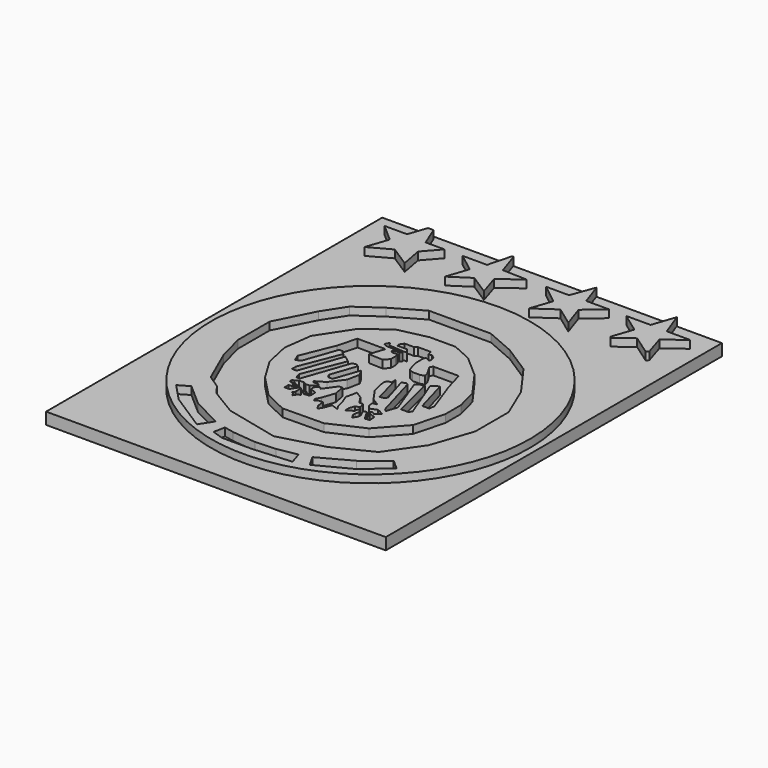
from build123d import *

# Parameters (mm, degrees)
F1_DEPTH = 5
F2_W     = 86.9421176612
F2_H     = 107.5545363128
F3_DEPTH = 3


with BuildPart() as f1:
    # F0 (on Top) → F1 (new body)
    with BuildSketch(Plane.XY):
        with BuildLine():
            ThreePointArc((40.8101458097, -4.0574758314), (19.5584731463, 31.7605940384), (-22.0631472766, 30.2745141089))
            ThreePointArc((-22.0631472766, 30.2745141089), (-19.5584731463, -39.8755457011), (40.8101458097, -4.0574758314))
        make_face()
        Polygon((-29.0015302598, -29.9886465073), (-26.3313166797, -28.435068205), (-20.748147741, -33.3385504782), (-13.0239412003, -37.3572520176), (-15.1594175406, -40.6709227431), (-24.7291922569, -34.5037356019), align=None, mode=Mode.SUBTRACT)
        Polygon((-10.5006732617, -41.1163097162), (-9.9216494709, -38.1934866309), (-7.3932726484, -38.7387871327), (-1.328418497, -39.3586680293), (3.8492442411, -39.0718195645), (8.866940625, -38.1449349225), (9.8864762112, -41.3491912186), (0, -42.0936117208), (-7.613190206, -42.0936117208), align=None, mode=Mode.SUBTRACT)
        Polygon((-23.1872331351, 18.1740820408), (-17.2174144536, 22.3690904677), (-9.634129703, 26.7254430801), (0, 26.7254430801), (6.1778253876, 26.7254430801), (13.5997636244, 23.4985146672), (20.86035721, 18.8194662333), (26.6688279808, 10.7521433383), (30.2184503525, 2.3621267173), (30.2184503525, -8.2867415622), (26.6688279808, -18.7742616981), (20.6990111619, -27.3256246001), (11.3409142941, -32.004673034), (0, -35.0702553988), (-13.6677902192, -31.8433269858), (-20.6056889147, -27.6483185589), (-22.3286441752, -25.2553244356), (-25.7687773556, -22.9692682624), (-29.8024397343, -13.7725193053), (-31.5772518516, -6.9959675893), (-31.5772518516, 3.1688604504), (-26.7368555069, 12.688302435), align=None, mode=Mode.SUBTRACT)
        Polygon((-28.4894406796, -25.5817174911), (-31.9730862975, -27.0579606295), (-36.448340863, -19.713955), (-39.2023436725, -7.550443057), (-39.2023436725, 6.2195695937), (-32.891087234, 19.3010792136), (-22.0631472766, 30.2745141089), (-9.7524980083, 35.3568904102), (2.6871976443, 35.3568904102), (10.3511316702, 34.5662981272), (20.7417719066, 29.5968633145), (33.2676097751, 18.335102126), (37.7493314445, 5.8092670515), (38.7835763395, -8.325391449), (37.4007709324, -15.3055805713), (32.7393896878, -23.8215643913), (30.7672694325, -27.5865253061), (29.5903012156, -26.7119389027), (26.8323179334, -25.332948193), (32.5781144202, -17.5186656415), (34.5335231066, -11.5220804193), (35.5490520597, -1.5862443252), (33.7170958519, 8.3310632035), (28.330495581, 18.293004483), (18.7628492713, 27.8498735279), (7.725427168, 31.4490337593), (-3.6371140741, 32.8889489174), (-12.764044106, 30.4562915117), (-22.5815549493, 24.9828100204), (-30.4008126259, 16.6422687471), (-35.0439788129, 6.9338267962), (-36.3955758512, -6.120455917), (-34.0498015285, -16.4592508227), align=None, mode=Mode.SUBTRACT)
        Polygon((13.4307321421, -40.2404095032), (11.7313507944, -37.3195968568), (19.5963419974, -33.0472551286), (25.4525449028, -28.435068205), (27.9953759164, -30.6683387607), (21.5383153409, -36.0087640584), align=None, mode=Mode.SUBTRACT)
        Polygon((-36.448340863, -19.713955), (-31.9730862975, -27.0579606295), (-28.4894406796, -25.5817174911), (-34.0498015285, -16.4592508227), (-36.3955758512, -6.120455917), (-35.0439788129, 6.9338267962), (-30.4008126259, 16.6422687471), (-22.5815549493, 24.9828100204), (-12.764044106, 30.4562915117), (-3.6371140741, 32.8889489174), (7.725427168, 31.4490337593), (18.7628492713, 27.8498735279), (28.330495581, 18.293004483), (33.7170958519, 8.3310632035), (35.5490520597, -1.5862443252), (34.5335231066, -11.5220804193), (32.5781144202, -17.5186656415), (26.8323179334, -25.332948193), (29.5903012156, -26.7119389027), (30.7672694325, -27.5865253061), (32.7393896878, -23.8215643913), (37.4007709324, -15.3055805713), (38.7835763395, -8.325391449), (37.7493314445, 5.8092670515), (33.2676097751, 18.335102126), (20.7417719066, 29.5968633145), (10.3511316702, 34.5662981272), (2.6871976443, 35.3568904102), (-9.7524980083, 35.3568904102), (-22.0631472766, 30.2745141089), (-32.891087234, 19.3010792136), (-39.2023436725, 6.2195695937), (-39.2023436725, -7.550443057), align=None)
    extrude(amount=F1_DEPTH)


with BuildPart() as f1b:
    # F0 (on Top) → F1, piece 2 (new body)
    with BuildSketch(Plane.XY):
        Polygon((-30.7203829288, 54.5568652451), (-32.1529917419, 54.5568652451), (-33.7511871068, 49.8349246231), (-39.5206920803, 49.8349246231), (-35.0144900883, 45.8773009456), (-36.9289289221, 40.2210046651), (-31.547532285, 43.1442330344), (-26.3313166797, 39.7826724167), (-27.3606831422, 45.3551548403), (-23.8188105876, 49.3879771756), (-28.6737997085, 49.3879771756), align=None)
    extrude(amount=F1_DEPTH)


with BuildPart() as f1c:
    # F0 (on Top) → F1, piece 3 (new body)
    with BuildSketch(Plane.XY):
        Polygon((-11.0374353826, 55.5119775236), (-11.4084482193, 55.4918982089), (-12.9987215623, 49.4700632989), (-19.2325934768, 49.4700632989), (-14.5041802898, 45.801833272), (-16.3895168973, 40.2315208379), (-11.4508550614, 43.4694327414), (-6.3747421507, 40.1981605121), (-8.0582713708, 45.5685928464), (-2.8845816851, 49.4488589466), (-9.0741766617, 49.6437698603), align=None)
    extrude(amount=F1_DEPTH)


with BuildPart() as f1d:
    # F0 (on Top) → F1, piece 4 (new body)
    with BuildSketch(Plane.XY):
        Polygon((12.2412126511, 49.6653430164), (10.2348038927, 55.4918982089), (8.0179627985, 49.4488589466), (2.1021452267, 49.4488589466), (7.1930012434, 45.4780635327), (5.3250994533, 39.9592630565), (10.5199925601, 43.5638837516), (15.3332203627, 40.0652810931), (13.4460963309, 45.7054525614), (18.0446933955, 49.6653430164), align=None)
    extrude(amount=F1_DEPTH)


with BuildPart() as f1e:
    # F0 (on Top) → F1, piece 5 (new body)
    with BuildSketch(Plane.XY):
        Polygon((33.0188125372, 49.4488589466), (30.7672694325, 55.4918982089), (28.7696024725, 49.5897006582), (22.5588493049, 49.5897006582), (27.5050364435, 45.9789223969), (25.6735116206, 40.5675993187), (26.0091523656, 40.2728189778), (30.294360593, 43.4004217386), (35.2891944349, 39.8975498974), (35.7125565807, 40.5544912658), (34.0891368687, 45.735668391), (39.0028879046, 49.4488589466), align=None)
    extrude(amount=F1_DEPTH)


with BuildPart() as f1f:
    # F0 (on Top) → F1, piece 6 (new body)
    with BuildSketch(Plane.XY):
        Polygon((-6.1409380287, -24.5712734759), (4.4030114077, -24.421390146), (12.7930277959, -20.5490738153), (18.7628492713, -13.9338690788), (20.8603516221, -6.1892378144), (20.8603516221, -1.1874965858), (19.4082353264, 4.2982837185), (14.7614577711, 10.7521433383), (9.2434054241, 15.592536889), (4.2416648939, 17.8513880819), (-2.373540774, 17.8513880819), (-9.634132497, 16.2379238755), (-15.7845103755, 11.8096531094), (-21.2510786951, 3.4915511496), (-22.2191568464, -3.7690405734), (-20.8102408797, -10.3163570166), (-17.2174144536, -16.2835307419), (-11.9423577562, -21.7534415424), align=None)
        Polygon((-6.0580600984, 8.3310632035), (-7.3012216017, 4.5187021606), (-3.6371140741, 4.4004707597), (-2.5341262626, 5.603632424), (-2.5341262626, 7.0956602332), (-2.80415616, 8.0489410101), (-4.1152330521, 8.0489410101), (-4.6486479822, 8.4038266999), (-4.4083716348, 8.834854461), (-2.9292545999, 8.834854461), (-2.4381407833, 9.2361554678), (-3.1336718239, 9.2754680663), (-6.9951168261, 9.4937235117), (-7.5827278197, 9.8918238655), (-7.0790611207, 11.0550904647), (-6.5082386136, 10.0981229916), (-3.0665162485, 9.7941657645), (-1.7552454956, 9.7941657645), (-2.7116052806, 10.9645627885), (-5.0791497848, 10.9645627885), (-5.2450170151, 11.5501203272), (-4.5626228675, 12.5758005306), (-2.1871502977, 12.5758005306), (-1.5392934438, 13.0508453628), (1.7433759878, 13.0508453628), (2.0789416581, 11.8662050469), (2.8414493427, 12.0821958408), (3.7839591011, 11.325842179), (4.0462387646, 10.26466491), (3.7839591011, 9.7941657645), (3.2137566689, 10.1735265061), (2.6871976443, 10.4471296072), (2.3986575834, 9.8918238655), (2.3986575834, 7.3631204379), (3.2116526272, 4.4930214062), (4.4148145244, 3.9122355198), (6.2118788542, 3.9122355198), (7.3546012555, 4.235927364), (7.0370901376, 5.3568300791), (5.6822143132, 7.6140509495), (6.1115808785, 8.3842845214), (12.6355564642, 8.3842845214), (14.0654537827, 3.3363485709), (17.0474629849, -4.9191047437), (16.8277360499, -6.3002454117), (15.038529411, -6.3002454117), (12.5709355855, 2.411048345), (11.7426272482, 2.2063243669), (10.8951078728, 1.3588065049), (15.0174293873, -9.2915951231), (14.5676862448, -10.0983818993), (12.6529242843, -10.0983818993), (9.9220322445, 0.9507422219), (9.4197997823, 0.6368465838), (8.8861770928, 0.6368465838), (7.9758800566, 0), (11.6752570754, -9.8685671867), (11.1475829428, -11.3943227117), (10.7381604612, -12.5781567767), (10.0789796561, -12.0131447911), (6.8847833001, -0.7818699953), (6.4301577886, -0.6246402698), (5.4019363597, -0.9326330037), (7.4422578327, -7.7441646717), (7.1835153493, -8.2889923662), (5.9355585836, -8.6230719462), (3.8594605402, -0.8677922034), (3.8594605402, -2.2132135264), (2.9485981449, -2.2709913296), (2.5972696113, -3.2868483104), (3.4243941773, -6.9594262168), (5.6493133301, -10.161158139), (7.6619843021, -11.4167435095), (6.5190033983, -11.5725226511), (6.5947393887, -12.7664944157), (7.4108676054, -13.8337397948), (9.2080438813, -13.1399862525), (9.910315586, -13.4195310711), (10.9264981002, -14.0534667298), (9.7590814302, -15.1238678467), (8.8017683618, -14.5266573237), (8.5095018148, -14.995153062), (9.147183279, -15.5383808489), (10.5779563379, -16.0332058195), (10.6826253372, -17.6833041309), (9.5139676705, -17.7574343979), (8.7816625043, -16.5342524465), (8.006729096, -15.1967446648), (7.3794783093, -15.5601650476), (7.595278146, -16.3785695018), (7.9758800566, -17.0354750007), (7.909597796, -17.9461770418), (7.2433477786, -19.0141586395), (6.624574093, -17.9461770418), (6.624574093, -17.1628513184), (6.9400244392, -16.2507351488), (6.1162468267, -15.3565929248), (5.8727799915, -15.9682296216), (5.8175353723, -16.437890408), (5.0727798157, -16.8693914204), (4.2293888223, -17.3580404332), (4.1607689716, -16.276254035), (4.670993125, -14.8009546542), (5.7158321142, -14.4929205999), (5.2726035113, -12.9895071979), (4.334690515, -13.0490008742), (3.0369378444, -11.0822761939), (1.2585142395, -9.9728237838), (0.6621128414, -12.8292739391), (1.6037998721, -15.2462692931), (2.018581347, -16.94738147), (2.5972696113, -17.9461770418), (1.6204377668, -17.6083451363), (0.789644733, -17.321019948), (0.1775567535, -19.0908558349), (-0.6108503614, -20.3546521101), (-1.315428759, -19.1385746002), (-1.4712459092, -17.3985922809), (-2.5172531812, -17.4649425908), (-3.3200066917, -17.9300468112), (-3.6382563412, -17.38075912), (-2.9427423915, -15.9916511347), (-1.8490516813, -12.8292739391), (-2.3741716886, -10.0754730801), (-3.2301917672, -10.1297721267), (-5.4610317306, -13.2097609072), (-6.0238623992, -12.6409363002), (-6.9574186805, -13.5646553156), (-6.8975105615, -14.5091019685), (-5.2946417537, -15.0634453046), (-5.2061245218, -16.4589123094), (-5.4049435094, -16.9583848092), (-6.7744784142, -17.0452571167), (-6.8410443389, -15.9958506966), (-7.3648201746, -15.8147057128), (-7.2871029217, -17.0399119221), (-6.8957413728, -17.7153881779), (-7.5728771811, -18.1077112485), (-8.104992524, -18.960678422), (-8.6206653866, -18.0706452151), (-9.0068812455, -17.9370745906), (-8.6206653866, -17.3179805279), (-8.6206653866, -15.4444323732), (-9.0830364138, -15.2845239037), (-9.8156448615, -16.4588763541), (-10.2928429842, -17.2238126397), (-11.4856455475, -17.2238126397), (-11.4856455475, -15.9183324004), (-10.2928429842, -15.8426705748), (-9.4186192972, -15.0714790916), (-10.2928429842, -14.7691336514), (-11.0680109309, -15.2182551797), (-11.1217466764, -14.3711154964), (-11.7416887743, -14.7303013266), (-12.269700443, -14.5476914033), (-12.3125383426, -13.8723553791), (-11.0445475411, -13.1376991423), (-9.8331370955, -13.060856982), (-9.1390505621, -13.4938561702), (-8.0641834065, -13.4256752208), (-6.8235464716, -12.3584317043), (-7.1279478659, -11.8330456141), (-8.3652233891, -11.9115284475), (-8.6206653866, -11.4706445524), (-6.306368392, -10.129773058), (-3.7952039856, -6.7710899748), (-3.1594569726, -3.559762105), (-4.0744822578, -1.9804606759), (-6.2749790959, -8.3431379442), (-7.4363928288, -8.3431379442), (-7.979844473, -7.4051595382), (-5.741356872, -0.9326330037), (-6.4319269732, -0.4679111725), (-7.4363928288, -0.6501266616), (-11.4856455475, -12.3584317043), (-12.3645532876, -12.2956521809), (-12.8040071577, -10.9772905707), (-8.6206653866, -0.4679111725), (-10.2928429842, 0.7624029531), (-14.0909794718, -10.0669935346), (-15.3151722625, -10.0669935346), (-15.3151722625, -8.7486319244), (-11.3148308079, 1.3999601982), (-11.6944750202, 1.6367975778), (-12.1583091095, 2.2810117807), (-13.1026403978, 2.2810117807), (-15.9462565708, -5.8373940304), (-17.2174144536, -6.7526274361), (-17.9924089462, -4.9293236807), (-14.5944347605, 3.4412955865), (-13.268395327, 8.3310632035), align=None, mode=Mode.SUBTRACT)
    extrude(amount=F1_DEPTH)


with BuildPart() as f3:
    # F2 (on Top) → F3 (new body)
    with BuildSketch(Plane.XY):
        with Locations((-1.0570455343, 1.5855710953)):
            Rectangle(F2_W, F2_H)
    extrude(amount=F3_DEPTH)


solid = Compound([f1.part, f1b.part, f1c.part, f1d.part, f1e.part, f1f.part, f3.part])
